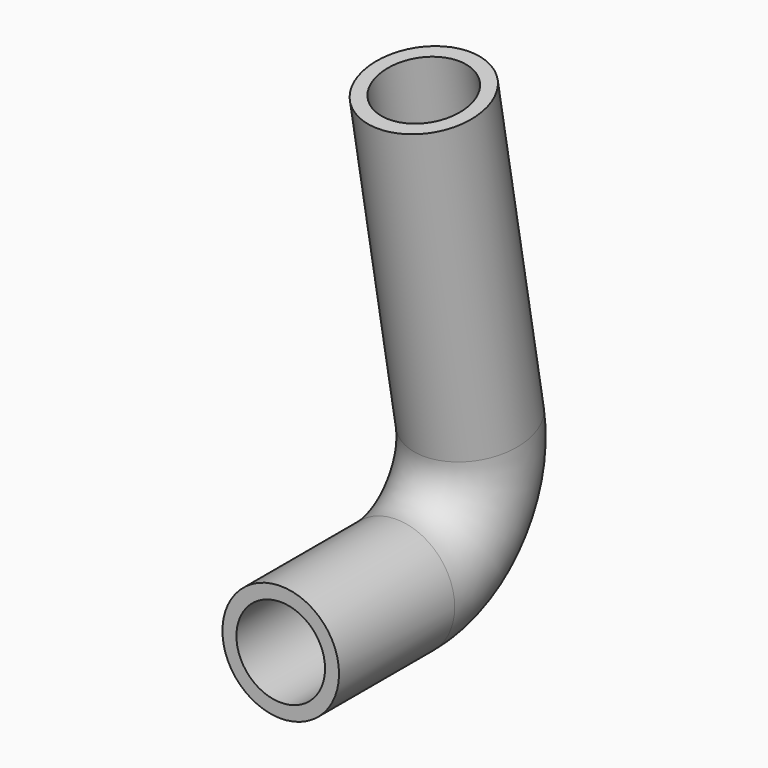
from build123d import *

# Parameters (mm, degrees)
F0_R   = 12.5
F0_R_2 = 9.5


with BuildPart() as f2:
    # F2: sweep along a path in F1
    with BuildLine(Plane.YZ) as f2_path:
        Line((0, 0), (31.003404, 0))
        ThreePointArc((31.003404, 0), (46.375196, 7.205158), (50.67137, 23.629202))
        Line((50.67137, 23.629202), (38.332084, 90.500287))
    # F0 (on Front) → F2 (sweep)
    with BuildSketch(Plane.XZ):
        Circle(F0_R)
        Circle(F0_R_2, mode=Mode.SUBTRACT)
    sweep(path=f2_path.line)


solid = f2.part
